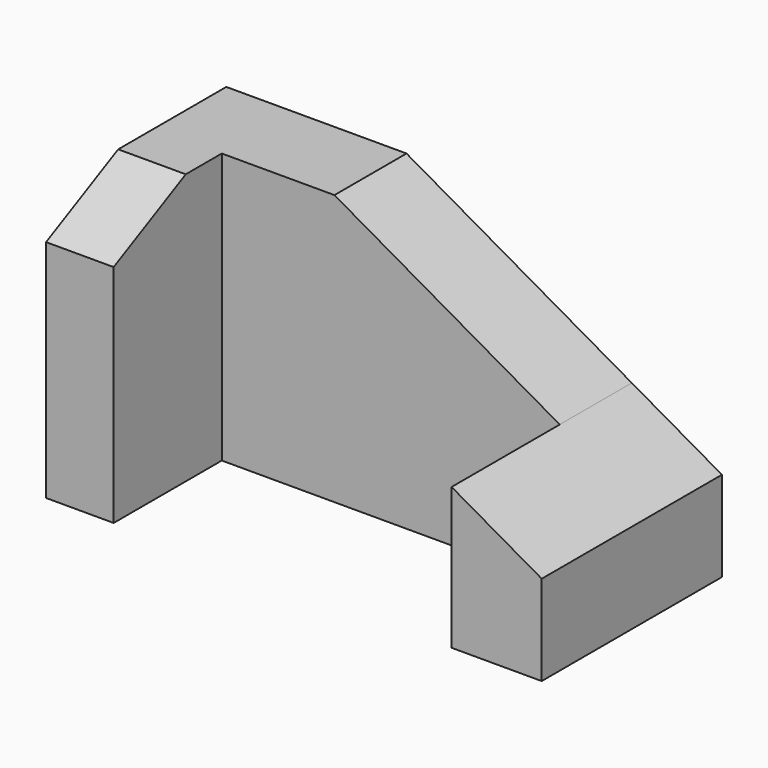
from build123d import *

# Parameters (mm, degrees)
F0_W     = 15
F0_H     = 60
F1_DEPTH = 50
F2_DEPTH = 20
F4_DEPTH = 15


with BuildPart() as f1:
    # F0 (on Front) → F1 (new body)
    with BuildSketch(Plane.XZ):
        with Locations((7.5, 30)):
            Rectangle(F0_W, F0_H)
        with Locations((7.5, 30)):
            Rectangle(F0_W, F0_H)
    extrude(amount=F1_DEPTH)



with BuildPart() as f1b:
    # F0 (on Front) → F1, piece 2 (new body)
    with BuildSketch(Plane.XZ):
        Polygon((90, 31.4285714286), (90, 0), (110, 0), (110, 20), align=None)
        Polygon((90, 31.4285714286), (90, 0), (110, 0), (110, 20), align=None)
    extrude(amount=F1_DEPTH)


with BuildPart() as f1_1:
    add(f1.part)

    add(f1b.part)  # F2 merges F1b
    # F0 (on Front) → F2 (join)
    with BuildSketch(Plane.XZ):
        Polygon((15, 60), (15, 0), (90, 0), (90, 31.4285714286), (40, 60), align=None)
    extrude(amount=F2_DEPTH)

    # F3 (on face) → F4 (cut)
    with BuildSketch(Plane.YZ.offset(15)):
        Polygon((-50, 60), (-50, 50), (-30, 60), align=None)
    extrude(amount=-F4_DEPTH, mode=Mode.SUBTRACT)


solid = f1_1.part
